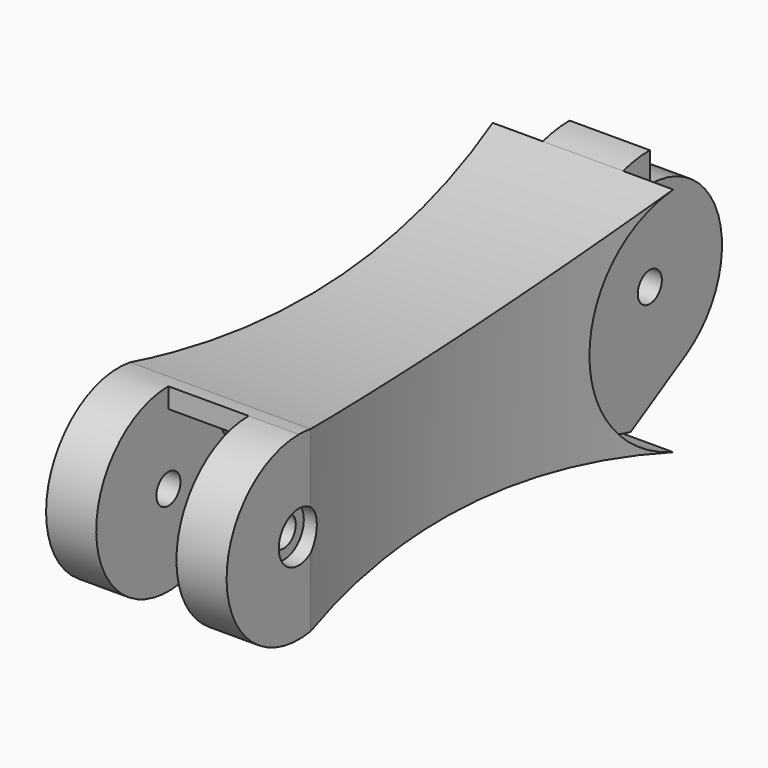
from build123d import *

# Parameters (mm, degrees)
F1_DEPTH  = 5
F3_DEPTH  = 8
F5_DEPTH  = 5
F6_R      = 12
F7_DEPTH  = 5
F8_R      = 12
F9_DEPTH  = 5
F11_DEPTH = 13.001
F12_R     = 1.5
F13_DEPTH = 18.001
F14_R     = 2.5
F15_DEPTH = 1.5
F16_R     = 2.5
F17_DEPTH = 1.5
F18_R     = 113.2772211927
F19_DEPTH = 12.5


with BuildPart() as f1:
    # F0 (on Right) → F1 (new body)
    with BuildSketch(Plane.YZ):
        with BuildLine():
            ThreePointArc((46.6693164652, 11.5285101896), (24.2181276728, 7.6768989517), (1.4706951967, 8.8790233494))
            ThreePointArc((1.4706951967, 8.8790233494), (-9, 0), (1.4706951967, -8.8790233494))
            ThreePointArc((1.4706951967, -8.8790233494), (24.2181276728, -7.6768989517), (46.6693164652, -11.5285101896))
            ThreePointArc((46.6693164652, -11.5285101896), (62, 0), (46.6693164652, 11.5285101896))
        make_face()
    extrude(amount=F1_DEPTH)

    # F2 (on face) → F3 (join)
    with BuildSketch(Plane.YZ.offset(5)):
        with BuildLine():
            ThreePointArc((46.6693164652, 11.5285101896), (24.2181276728, 7.6768989517), (1.4706951967, 8.8790233494))
            ThreePointArc((1.4706951967, 8.8790233494), (0.7378312326, 8.9697048487), (0, 9))
            Line((0, 9), (0, 7))
            ThreePointArc((0, 7), (3.4468203516, 6.0925716626), (6, 3.6055512755))
            Line((6, 3.6055512755), (12.7617545607, -7.6466884694))
            ThreePointArc((12.7617545607, -7.6466884694), (29.8782372644, -8.1664058525), (46.6693164652, -11.5285101896))
            ThreePointArc((46.6693164652, -11.5285101896), (62, 0), (46.6693164652, 11.5285101896))
        make_face()
    extrude(amount=F3_DEPTH)

    # F4 (on face) → F5 (join)
    with BuildSketch(Plane.YZ.offset(13)):
        with BuildLine():
            ThreePointArc((1.4706951967, 8.8790233494), (0.7378312326, 8.9697048487), (0, 9))
            ThreePointArc((0, 9), (-8.9697048487, -0.7378312326), (1.4706951967, -8.8790233494))
            ThreePointArc((1.4706951967, -8.8790233494), (7.0991420432, -8.1063373261), (12.7617545607, -7.6466884694))
            ThreePointArc((12.7617545607, -7.6466884694), (29.8782372644, -8.1664058525), (46.6693164652, -11.5285101896))
            ThreePointArc((46.6693164652, -11.5285101896), (62, 0), (46.6693164652, 11.5285101896))
            ThreePointArc((46.6693164652, 11.5285101896), (24.2181276728, 7.6768989517), (1.4706951967, 8.8790233494))
        make_face()
    extrude(amount=F5_DEPTH)

    # F6 (on face) → F7 (cut)
    with BuildSketch(Plane.YZ.offset(18)):
        with Locations((50, 0)):
            Circle(F6_R)
    extrude(amount=-F7_DEPTH, mode=Mode.SUBTRACT)

    # F8 (on face) → F9 (cut)
    with BuildSketch(Plane(origin=(0, 0, 0), x_dir=(0, -1, 0), z_dir=(-1, 0, 0))):
        with Locations((-50, 0)):
            Circle(F8_R)
    extrude(amount=-F9_DEPTH, mode=Mode.SUBTRACT)

    # F10 (on face) → F11 (cut, through all)
    with BuildSketch(Plane.YZ.offset(13)):
        with BuildLine():
            Line((54.5, -7.7942286341), (47.6261364576, -11.7628556007))
            ThreePointArc((47.6261364576, -11.7628556007), (61.9405667204, -1.1928396355), (50, 12))
            Line((50, 12), (50, 9))
            ThreePointArc((50, 9), (58.6933324366, 2.3293714059), (54.5, -7.7942286341))
        make_face()
    extrude(amount=-F11_DEPTH, mode=Mode.SUBTRACT)

    # F12 (on face) → F13 (cut, through all)
    with BuildSketch(Plane.YZ.offset(18)):
        Circle(F12_R)
        with Locations((50, 0)):
            Circle(F12_R)
    extrude(amount=-F13_DEPTH, mode=Mode.SUBTRACT)

    # F14 (on face) → F15 (cut)
    with BuildSketch(Plane.YZ.offset(18)):
        Circle(F14_R)
    extrude(amount=-F15_DEPTH, mode=Mode.SUBTRACT)

    # F16 (on face) → F17 (cut)
    with BuildSketch(Plane(origin=(0, 0, 0), x_dir=(0, -1, 0), z_dir=(-1, 0, 0))):
        Circle(F16_R)
    extrude(amount=-F17_DEPTH, mode=Mode.SUBTRACT)

    # F18 (on Top) → F19 (cut, symmetric)
    with BuildSketch(Plane.XY):
        with Locations((-111, 24.070005831)):
            Circle(F18_R)
        with Locations((129, 24.070005831)):
            Circle(F18_R)
    extrude(amount=F19_DEPTH, both=True, mode=Mode.SUBTRACT)


solid = f1.part
